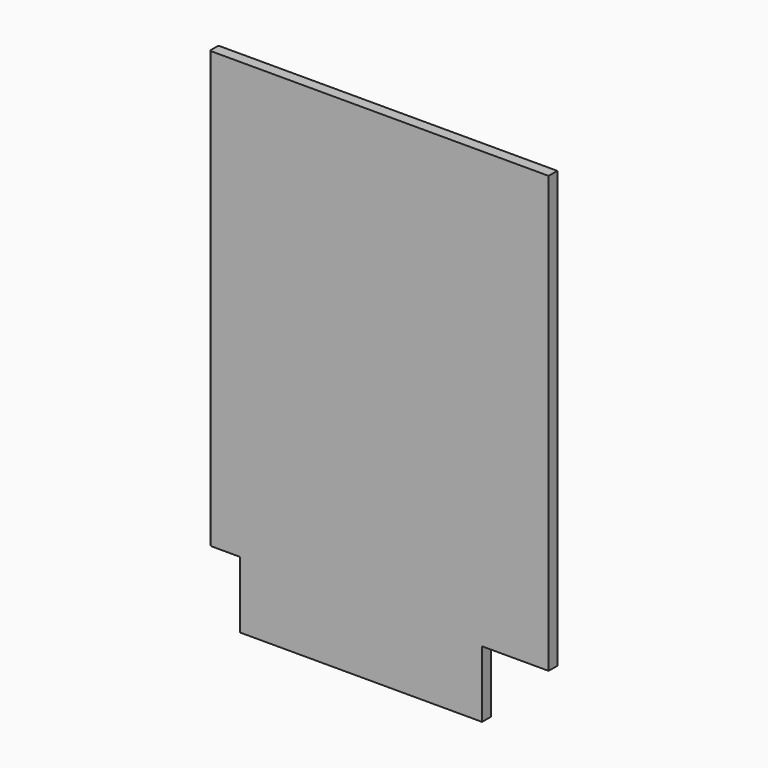
from build123d import *

# Parameters (mm, degrees)
F1_DEPTH = 9
F2_R     = 3


with BuildPart() as f1:
    # F0 (on Front) → F1 (new body, symmetric)
    with BuildSketch(Plane.XZ):
        Polygon((280, -305), (280, 415), (-280, 415), (-280, -305), (-230, -305), (-230, -415), (170, -415), (170, -305), align=None)
    extrude(amount=F1_DEPTH, both=True)

    # F2
    f2_edges = [f1.edges().sort_by_distance(p)[0] for p in [
        (-280, -9, 55),
        (-280, 9, 55),
        (-280, 0, -305),
    ]]
    fillet(f2_edges, radius=F2_R)


solid = f1.part
